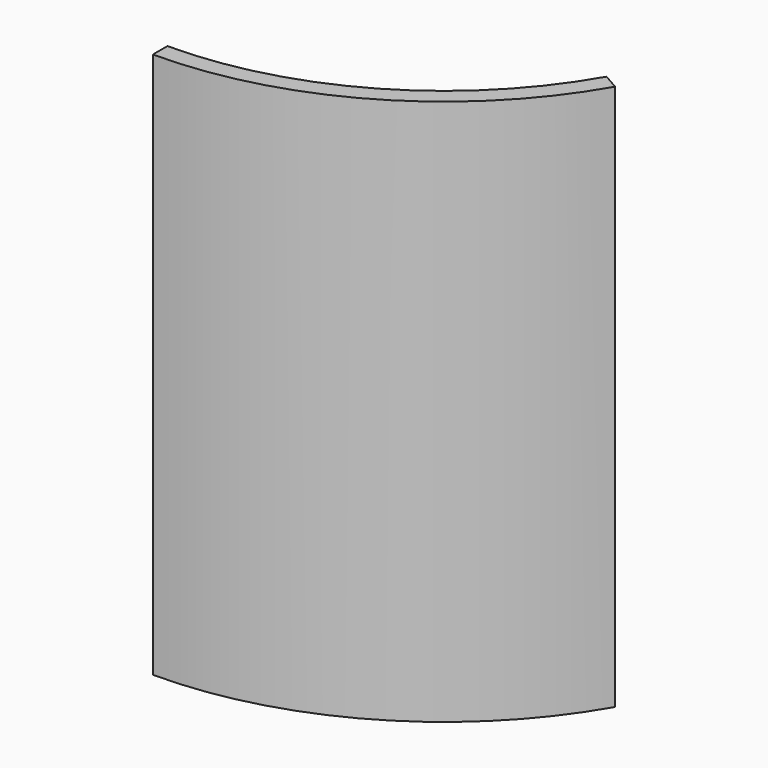
from build123d import *

# Parameters (mm, degrees)
F0_R     = 50.8
F1_DEPTH = 76.2
F3_T     = -2.54
F4_DEPTH = 76.2


with BuildPart() as f1:
    # F0 (on Top) → F1 (new body)
    with BuildSketch(Plane.XY):
        Circle(F0_R)
    extrude(amount=F1_DEPTH)

    # F3
    f3_openings = [f1.faces().sort_by_distance(p)[0] for p in [
        (0, 0, 76.2),
    ]]
    offset(amount=F3_T, openings=f3_openings)

    # F2 (on face) → F4 (cut)
    with BuildSketch(Plane.XY.offset(76.2)):
        with BuildLine():
            Line((0, -50.8), (0, 0))
            Line((0, 0), (44.0739362402, -25.2611983939))
            ThreePointArc((44.0739362402, -25.2611983939), (49.0896932207, -13.0706548994), (50.8, 0))
            ThreePointArc((50.8, 0), (-35.9210244843, 35.9210244843), (0, -50.8))
        make_face()
    extrude(amount=-F4_DEPTH, mode=Mode.SUBTRACT)


solid = f1.part
